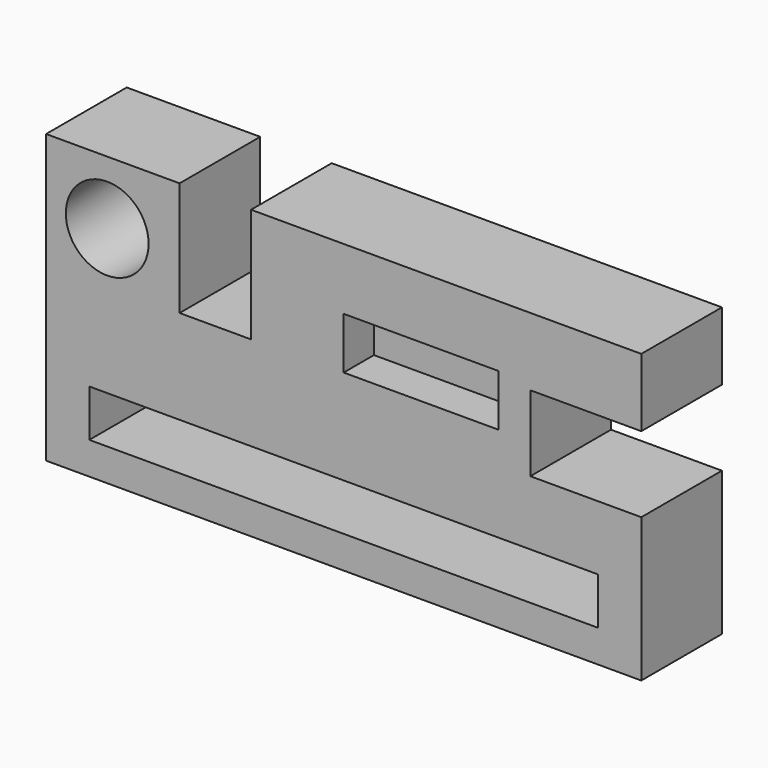
from build123d import *

# Parameters (mm, degrees)
F0_W      = 118.1190237403
F0_H      = 57.0687428117
F1_DEPTH  = 20
F2_R      = 8.2109048963
F3_DEPTH  = 20.001
F4_W      = 14.182465151
F4_H      = 22.6561129093
F5_DEPTH  = 20.001
F6_W      = 30.6975711137
F6_H      = 10.263627395
F7_DEPTH  = 7.5
F8_W      = 22.0171548426
F8_H      = 15.0222154334
F9_DEPTH  = 20.001
F10_W     = 100.9567603469
F10_H     = 9.3305669725
F11_DEPTH = 20.001


with BuildPart() as f1:
    # F0 (on Front) → F1 (new body)
    with BuildSketch(Plane.XZ):
        Rectangle(F0_W, F0_H)
    extrude(amount=F1_DEPTH)

    # F2 (on face) → F3 (cut, through all)
    with BuildSketch(Plane.XZ.offset(20)):
        with Locations((-46.9327643514, 15.955273062)):
            Circle(F2_R)
    extrude(amount=-F3_DEPTH, mode=Mode.SUBTRACT)

    # F4 (on face) → F5 (cut, through all)
    with BuildSketch(Plane.XZ.offset(20)):
        with Locations((-25.4724537954, 17.2063149512)):
            Rectangle(F4_W, F4_H)
    extrude(amount=-F5_DEPTH, mode=Mode.SUBTRACT)

    # F6 (on face) → F7 (cut)
    with BuildSketch(Plane.XZ.offset(20)):
        with Locations((15.3487855569, 11.196683161)):
            Rectangle(F6_W, F6_H)
    extrude(amount=-F7_DEPTH, mode=Mode.SUBTRACT)

    # F8 (on face) → F9 (cut, through all)
    with BuildSketch(Plane.XZ.offset(20)):
        with Locations((48.0509344488, 7.5111077167)):
            Rectangle(F8_W, F8_H)
    extrude(amount=-F9_DEPTH, mode=Mode.SUBTRACT)

    # F10 (on face) → F11 (cut, through all)
    with BuildSketch(Plane.XZ.offset(20)):
        with Locations((0, -17.4481645226)):
            Rectangle(F10_W, F10_H)
    extrude(amount=-F11_DEPTH, mode=Mode.SUBTRACT)


solid = f1.part
